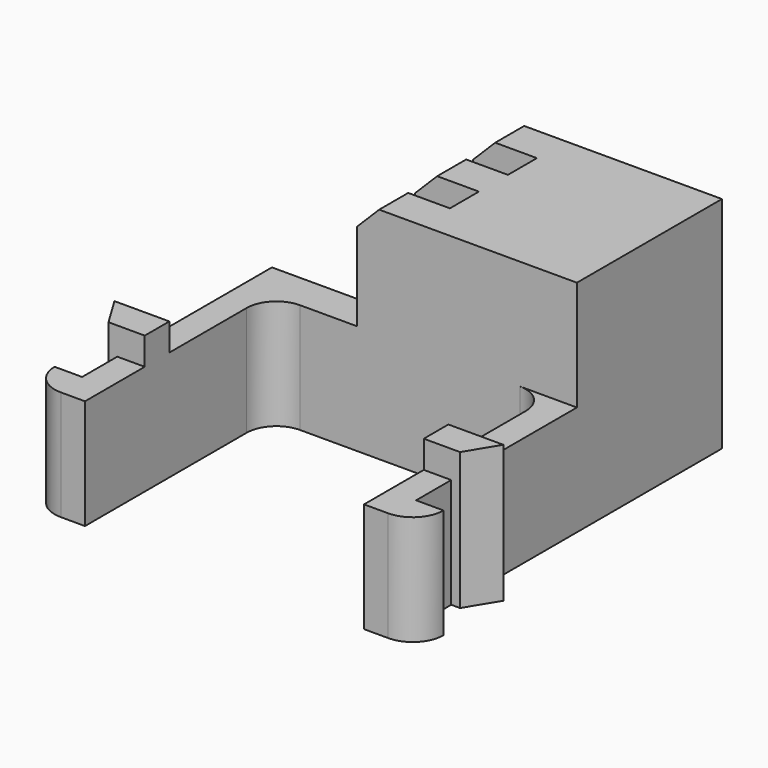
from build123d import *

# Parameters (mm, degrees)
PAD017_DEPTH           = 5
PAD020_DEPTH           = 6.25
SKETCH038_W            = 10
SKETCH038_H            = 1.65
PAD021_DEPTH           = 5
SKETCH089_W            = 10
SKETCH089_H            = 1.65
PAD058_DEPTH           = 10
SKETCH086_W            = 10
SKETCH086_H            = 1.65
PAD059_DEPTH           = 7.1
SKETCH087_W            = 7.1
SKETCH087_H            = 1.65
PAD060_DEPTH           = 10
SKETCH088_W            = 10
SKETCH088_H            = 1.65
PAD061_DEPTH           = 10
LINEARPATTERN020_COUNT = 2
LINEARPATTERN020_PITCH = 3.3
CHAMFER010_SIZE        = 1


with BuildPart() as obj1:
    # Sketch034 → Pad017 (new body)
    with BuildSketch(Plane.XY):
        with BuildLine():
            Line((-1.35, -1.8), (-1.35, 6))
            ThreePointArc((0, 7.35), (-0.954594, 6.954594), (-1.35, 6))
            Line((0, 9), (0, 7.35))
            Line((-2.6, 9), (0, 9))
            Line((-2.6, -1.8), (-2.6, 9))
            Line((-3.85, -1.8), (-2.6, -1.8))
            ThreePointArc((-3.85, -1.8), (-3.439949, -2.789949), (-2.45, -3.2))
            Line((-1.35, -3.2), (-2.45, -3.2))
            Line((-1.35, -1.8), (-1.35, -3.2))
        make_face()
    extrude(amount=PAD017_DEPTH)

    # Sketch037 → Pad020 (join)
    with BuildSketch(Plane.XY):
        Polygon((-1.35, 0.2), (-1.35, 1.6), (-2.6, 1.6), (-3.85, 1.6), (-3, 0.2), (-2.6, 0.2), align=None)
    extrude(amount=PAD020_DEPTH)


with BuildPart() as body031:
    # Mirror002: instance of _obj1
    add(obj1.part.mirror(Plane(origin=(5, 0, 0), x_dir=(0, 1, 0), z_dir=(-1, 0, 0))))

    # Fusion002: union _obj1
    add(obj1.part)


with BuildPart() as body031_1:
    # Clone003 placement: moved
    add(body031.part.moved(Location((-5, 0, 0))))

    # Sketch038 → Pad021 (new body)
    with BuildSketch(Plane.XY):
        with Locations((0, 8.175)):
            Rectangle(SKETCH038_W, SKETCH038_H)
    extrude(amount=PAD021_DEPTH)

    # Sketch089 → Pad058 (new body)
    with BuildSketch(Plane.XY):
        with Locations((2.6, 8.175)):
            Rectangle(SKETCH089_W, SKETCH089_H)
    extrude(amount=PAD058_DEPTH)

    # Sketch086 → Pad059 (join)
    with BuildSketch(Plane.XY):
        with Locations((2.6, 9.825)):
            Rectangle(SKETCH086_W, SKETCH086_H)
    pad059 = extrude(amount=PAD059_DEPTH)

    # Sketch087 → Pad060 (join)
    with BuildSketch(Plane.XY):
        with Locations((4.05, 9.825)):
            Rectangle(SKETCH087_W, SKETCH087_H)
    pad060 = extrude(amount=PAD060_DEPTH)

    # Sketch088 → Pad061 (join)
    with BuildSketch(Plane.XY):
        with Locations((2.6, 11.475)):
            Rectangle(SKETCH088_W, SKETCH088_H)
    pad061 = extrude(amount=PAD061_DEPTH)

    # LinearPattern020: Pad061, Pad060, Pad059 ×2
    with Locations(*[(0, i * LINEARPATTERN020_PITCH, 0) for i in range(1, LINEARPATTERN020_COUNT)]):
        add(pad061)
        add(pad060)
        add(pad059)

    # Chamfer010
    chamfer010_edges = [body031_1.edges().sort_by_distance(p)[0] for p in [
        (-2.4, 14.775, 10),
        (-2.4, 11.475, 10),
        (-2.4, 8.175, 10),
    ]]
    chamfer(chamfer010_edges, length=CHAMFER010_SIZE)


with BuildPart() as body031_2:
    # Body031 placement: moved
    add(body031_1.part.moved(Location((-5, 0, 0))))


solid = body031_2.part
